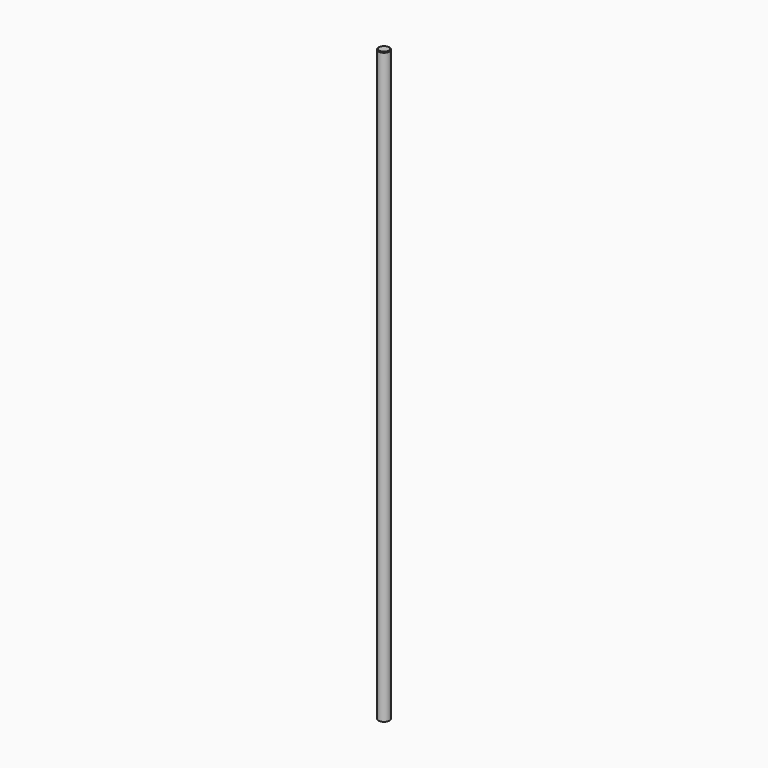
from build123d import *

# Parameters (mm, degrees)
F0_R       = 9.50595
F1_DEPTH   = 990.6
F2_SIZE2   = 0.9165435523
F2_SIZE    = 1.5875
F2_2_SIZE2 = 0.9165435523
F2_2_SIZE  = 1.5875


with BuildPart() as f1:
    # F0 (on Top) → F1 (new body)
    with BuildSketch(Plane.XY):
        Circle(F0_R)
    extrude(amount=-F1_DEPTH)

    # F2
    f2_edges = [f1.edges().sort_by_distance(p)[0] for p in [
        (-9.50595, 0, 0),
    ]]
    f2_side = f1.faces().sort_by_distance((0, 0, 0))[0]
    chamfer(f2_edges, length=F2_SIZE, length2=F2_SIZE2, reference=f2_side)

    # F2#2
    f2_2_edges = [f1.edges().sort_by_distance(p)[0] for p in [
        (-9.50595, 0, -990.6),
    ]]
    f2_2_side = f1.faces().sort_by_distance((0, 0, -990.6))[0]
    chamfer(f2_2_edges, length=F2_2_SIZE, length2=F2_2_SIZE2, reference=f2_2_side)


solid = f1.part
